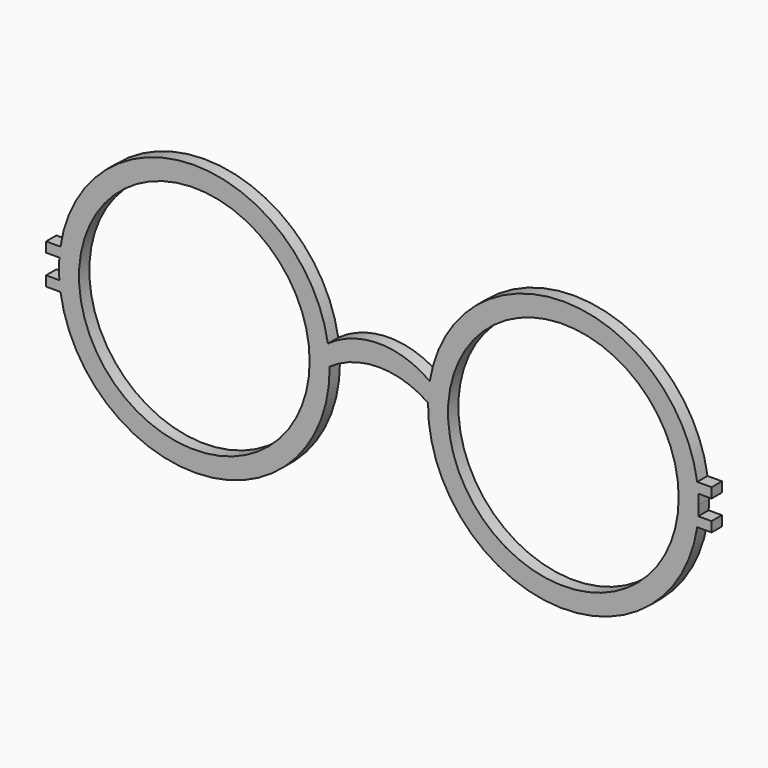
from build123d import *

# Parameters (mm, degrees)
F0_R     = 23.8125
F1_DEPTH = 2.667


with BuildPart() as f1:
    # F0 (on Front) → F1 (new body)
    with BuildSketch(Plane.XZ):
        with BuildLine():
            ThreePointArc((-65.964614, 2.051073), (-65.869192, 3.084735), (-65.735439, 4.114139))
            Line((-65.735439, 4.114139), (-68.707, 4.114139))
            Line((-68.707, 4.114139), (-68.707, 2.051073))
            Line((-68.707, 2.051073), (-65.964614, 2.051073))
        make_face()
        with BuildLine():
            ThreePointArc((-65.735439, -4.114139), (-36.037302, -27.863756), (-10.16, 0))
            ThreePointArc((-10.16, 0), (-10.160749, 0.204565), (-10.162995, 0.40912))
            ThreePointArc((-10.162995, 0.40912), (-10.266731, 2.439818), (-10.517878, 4.457595))
            ThreePointArc((-10.517878, 4.457595), (-38.273785, 27.93946), (-65.735439, 4.114139))
            ThreePointArc((-65.735439, 4.114139), (-65.869192, 3.084735), (-65.964614, 2.051073))
            ThreePointArc((-65.964614, 2.051073), (-66.04, 0), (-65.964614, -2.051073))
            ThreePointArc((-65.964614, -2.051073), (-65.869192, -3.084735), (-65.735439, -4.114139))
        make_face()
        with Locations((-38.1, 0)):
            Circle(F0_R, mode=Mode.SUBTRACT)
        with BuildLine():
            Line((-68.707, -4.114139), (-65.735439, -4.114139))
            ThreePointArc((-65.735439, -4.114139), (-65.869192, -3.084735), (-65.964614, -2.051073))
            Line((-65.964614, -2.051073), (-68.707, -2.051073))
            Line((-68.707, -2.051073), (-68.707, -4.114139))
        make_face()
        with BuildLine():
            ThreePointArc((-10.517878, 4.457595), (-10.266731, 2.439818), (-10.162995, 0.40912))
            ThreePointArc((-10.162995, 0.40912), (0, 3.600017), (10.162995, 0.40912))
            ThreePointArc((10.162995, 0.40912), (10.266731, 2.439818), (10.517878, 4.457595))
            ThreePointArc((10.517878, 4.457595), (0, 7.902232), (-10.517878, 4.457595))
        make_face()
        with BuildLine():
            ThreePointArc((10.517878, 4.457595), (10.266731, 2.439818), (10.162995, 0.40912))
            ThreePointArc((10.162995, 0.40912), (35.83335, -27.847907), (65.735439, -4.114139))
            ThreePointArc((65.735439, -4.114139), (65.869192, -3.084735), (65.964614, -2.051073))
            ThreePointArc((65.964614, -2.051073), (66.021147, -1.026229), (66.04, 0))
            ThreePointArc((66.04, 0), (66.021147, 1.026229), (65.964614, 2.051073))
            ThreePointArc((65.964614, 2.051073), (65.869192, 3.084735), (65.735439, 4.114139))
            ThreePointArc((65.735439, 4.114139), (38.273785, 27.93946), (10.517878, 4.457595))
        make_face()
        with Locations((38.1, 0)):
            Circle(F0_R, mode=Mode.SUBTRACT)
        with BuildLine():
            ThreePointArc((65.964614, -2.051073), (65.869192, -3.084735), (65.735439, -4.114139))
            Line((65.735439, -4.114139), (68.707, -4.114139))
            Line((68.707, -4.114139), (68.707, -2.051073))
            Line((68.707, -2.051073), (65.964614, -2.051073))
        make_face()
        with BuildLine():
            Line((68.707, 4.114139), (65.735439, 4.114139))
            ThreePointArc((65.735439, 4.114139), (65.869192, 3.084735), (65.964614, 2.051073))
            Line((65.964614, 2.051073), (68.707, 2.051073))
            Line((68.707, 2.051073), (68.707, 4.114139))
        make_face()
    extrude(amount=F1_DEPTH)


solid = f1.part
